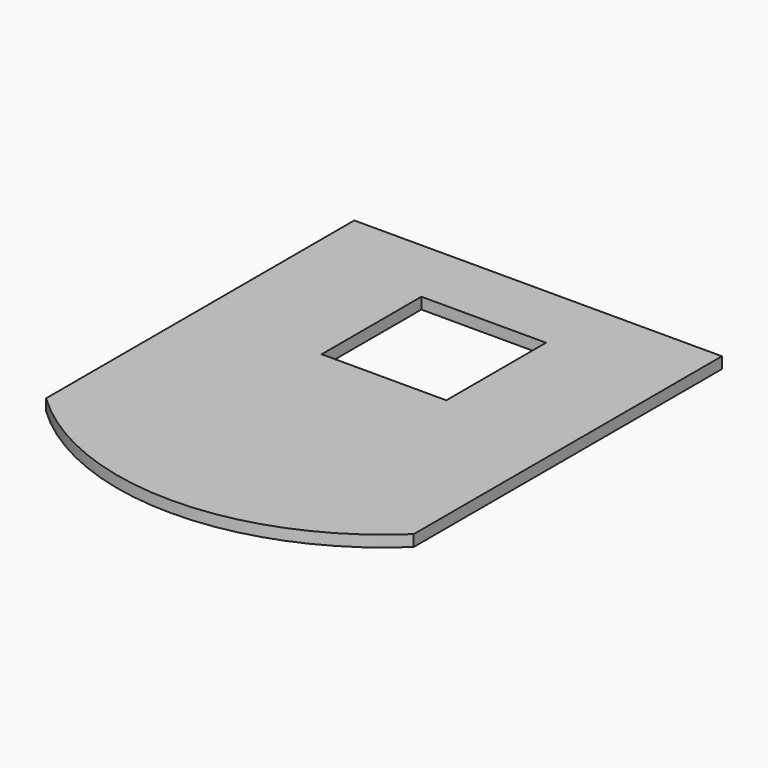
from build123d import *

# Parameters (mm, degrees)
F0_W     = 139.7
F0_H     = 139.7
F1_DEPTH = 12.7
F2_DEPTH = 12.7


with BuildPart() as f1:
    # F0 (on Top) → F1 (new body)
    with BuildSketch(Plane.XY):
        with BuildLine():
            Line((-206.057255, 215.9), (-206.057255, -215.9))
            ThreePointArc((-206.057255, -215.9), (0, -298.45), (206.057255, -215.9))
            Line((206.057255, -215.9), (206.057255, 215.9))
            Line((206.057255, 215.9), (-206.057255, 215.9))
        make_face()
        with Locations((0, 69.85)):
            Rectangle(F0_W, F0_H, mode=Mode.SUBTRACT)
    extrude(amount=F1_DEPTH)

    # F0 (on Top) → F2 (join)
    with BuildSketch(Plane.XY):
        with BuildLine():
            Line((-206.057255, 215.9), (-206.057255, -215.9))
            ThreePointArc((-206.057255, -215.9), (0, -298.45), (206.057255, -215.9))
            Line((206.057255, -215.9), (206.057255, 215.9))
            Line((206.057255, 215.9), (-206.057255, 215.9))
        make_face()
        with Locations((0, 69.85)):
            Rectangle(F0_W, F0_H, mode=Mode.SUBTRACT)
    extrude(amount=F2_DEPTH)


solid = f1.part
